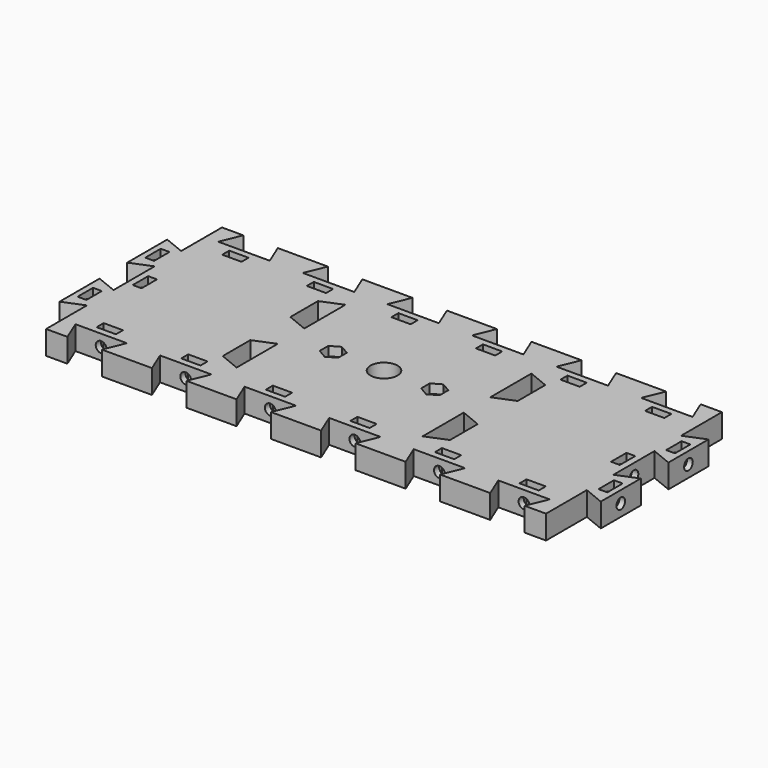
from build123d import *

# Parameters (mm, degrees)
SKETCH_W            = 160
SKETCH_H            = 65
PAD_DEPTH           = 7
POCKET_DEPTH        = 7.001
LINEARPATTERN_COUNT = 6
LINEARPATTERN_PITCH = 25
POCKET001_DEPTH     = 7.001
SKETCH003_R         = 1.6
POCKET002_DEPTH     = 10
SKETCH004_R         = 1.6
POCKET003_DEPTH     = 10
SKETCH005_W         = 2.6
SKETCH005_H         = 5.7
SKETCH005_W_2       = 5.7
SKETCH005_H_2       = 2.6
POCKET004_DEPTH     = 7.001
POCKET005_DEPTH     = 7.001
SKETCH007_R         = 1.6
SKETCH007_R_2       = 4
POCKET006_DEPTH     = 7.001
POCKET007_DEPTH     = 2.7
POCKET008_DEPTH     = 2.7
SKETCH010_R         = 1.6
POCKET009_DEPTH     = 10
SKETCH011_R         = 1.6
POCKET010_DEPTH     = 10
SKETCH012_R         = 1.6
POCKET011_DEPTH     = 10
SKETCH013_R         = 1.6
POCKET012_DEPTH     = 10


with BuildPart() as part:
    # Sketch → Pad (new body)
    with BuildSketch(Plane.XY):
        with Locations((80, 32.5)):
            Rectangle(SKETCH_W, SKETCH_H)
    extrude(amount=PAD_DEPTH)

    # Sketch001 (on Face6 of Pad) → Pocket (cut, through all)
    with BuildSketch(Plane.XY.offset(7)):
        Polygon((12.4, 65), (22.6, 65), (25.1, 58.9), (9.9, 58.9), align=None)
        Polygon((9.9, 6.1), (25.1, 6.1), (22.6, 0), (12.4, 0), align=None)
    pocket = extrude(amount=-POCKET_DEPTH, mode=Mode.SUBTRACT)

    # LinearPattern: Pocket ×6
    with Locations(*[(i * LINEARPATTERN_PITCH, 0, 0) for i in range(1, LINEARPATTERN_COUNT)]):
        add(pocket, mode=Mode.SUBTRACT)

    # Sketch002 (on Face4 of LinearPattern) → Pocket001 (cut, through all)
    with BuildSketch(Plane.XY.offset(7)):
        Polygon((0, 37.6), (0, 27.4), (6.1, 24.9), (6.1, 40.1), align=None)
        Polygon((0, 12.6), (6.1, 15.1), (6.1, 0), (0, 0), align=None)
        Polygon((0, 65.1), (6.1, 65.1), (6.1, 49.9), (0, 52.4), align=None)
        Polygon((160, 37.6), (160, 27.4), (153.9, 24.9), (153.9, 40.1), align=None)
        Polygon((160, 12.6), (153.9, 15.1), (153.9, 0), (160, 0), align=None)
        Polygon((160, 52.4), (153.9, 49.9), (153.9, 65), (160, 65), align=None)
    extrude(amount=-POCKET001_DEPTH, mode=Mode.SUBTRACT)

    # Sketch003 (on Face61 of Pocket001) → Pocket002 (cut)
    with BuildSketch(Plane(origin=(0, 0, 0), x_dir=(0, -1, 0), z_dir=(-1, 0, 0))):
        with Locations((-45, 3.5)):
            Circle(SKETCH003_R)
        with Locations((-20, 3.5)):
            Circle(SKETCH003_R)
    extrude(amount=-POCKET002_DEPTH, mode=Mode.SUBTRACT)

    # Sketch004 (on Face34 of Pocket002) → Pocket003 (cut)
    with BuildSketch(Plane.YZ.offset(160)):
        with Locations((20, 3.5)):
            Circle(SKETCH004_R)
        with Locations((45, 3.5)):
            Circle(SKETCH004_R)
    extrude(amount=-POCKET003_DEPTH, mode=Mode.SUBTRACT)

    # Sketch005 (on Face4 of Pocket003) → Pocket004 (cut, through all)
    with BuildSketch(Plane.XY.offset(7)):
        with Locations((3, 45)):
            Rectangle(SKETCH005_W, SKETCH005_H)
        with Locations((3, 20)):
            Rectangle(SKETCH005_W, SKETCH005_H)
        with Locations((157, 45)):
            Rectangle(SKETCH005_W, SKETCH005_H)
        with Locations((157, 20)):
            Rectangle(SKETCH005_W, SKETCH005_H)
        with Locations((17.5, 9.3)):
            Rectangle(SKETCH005_W_2, SKETCH005_H_2)
        with Locations((42.5, 9.3)):
            Rectangle(SKETCH005_W_2, SKETCH005_H_2)
        with Locations((67.5, 9.3)):
            Rectangle(SKETCH005_W_2, SKETCH005_H_2)
        with Locations((92.5, 9.3)):
            Rectangle(SKETCH005_W_2, SKETCH005_H_2)
        with Locations((117.5, 9.3)):
            Rectangle(SKETCH005_W_2, SKETCH005_H_2)
        with Locations((142.5, 9.3)):
            Rectangle(SKETCH005_W_2, SKETCH005_H_2)
        with Locations((17.5, 55.7)):
            Rectangle(SKETCH005_W_2, SKETCH005_H_2)
        with Locations((42.5, 55.7)):
            Rectangle(SKETCH005_W_2, SKETCH005_H_2)
        with Locations((67.5, 55.7)):
            Rectangle(SKETCH005_W_2, SKETCH005_H_2)
        with Locations((92.5, 55.7)):
            Rectangle(SKETCH005_W_2, SKETCH005_H_2)
        with Locations((117.5, 55.7)):
            Rectangle(SKETCH005_W_2, SKETCH005_H_2)
        with Locations((142.5, 55.7)):
            Rectangle(SKETCH005_W_2, SKETCH005_H_2)
        with Locations((9.3, 32.5)):
            Rectangle(SKETCH005_W, SKETCH005_H)
        with Locations((150.7, 32.5)):
            Rectangle(SKETCH005_W, SKETCH005_H)
    extrude(amount=-POCKET004_DEPTH, mode=Mode.SUBTRACT)

    # Sketch006 (on Face4 of Pocket004) → Pocket005 (cut, through all)
    with BuildSketch(Plane.XY.offset(7)):
        Polygon((46.4, 39.9), (46.4, 50.1), (52.5, 52.6), (52.5, 37.4), align=None)
        Polygon((46.4, 25.1), (46.4, 14.9), (52.5, 12.4), (52.5, 27.6), align=None)
        Polygon((107.5, 52.6), (107.5, 37.4), (113.6, 39.9), (113.6, 50.1), align=None)
        Polygon((107.5, 27.6), (107.5, 12.4), (113.6, 14.9), (113.6, 25.1), align=None)
    extrude(amount=-POCKET005_DEPTH, mode=Mode.SUBTRACT)

    # Sketch007 (on Face4 of Pocket005) → Pocket006 (cut, through all)
    with BuildSketch(Plane.XY.offset(7)):
        with Locations((65, 32.5)):
            Circle(SKETCH007_R)
        with Locations((95, 32.5)):
            Circle(SKETCH007_R)
        with Locations((80, 32.5)):
            Circle(SKETCH007_R_2)
    extrude(amount=-POCKET006_DEPTH, mode=Mode.SUBTRACT)

    # Sketch008 (on Face4 of Pocket006) → Pocket007 (cut)
    with BuildSketch(Plane.XY.offset(7)):
        Polygon((67.75, 34.087713), (65, 35.675426), (62.25, 34.087713), (62.25, 30.912287), (65, 29.324574), (67.75, 30.912287), align=None)
        Polygon((95, 35.675426), (92.25, 34.087713), (92.25, 30.912287), (95, 29.324574), (97.75, 30.912287), (97.75, 34.087713), align=None)
    extrude(amount=-POCKET007_DEPTH, mode=Mode.SUBTRACT)

    # Sketch009 (on Face2 of Pocket007) → Pocket008 (cut)
    with BuildSketch(Plane(origin=(0, 0, 0), x_dir=(1, 0, 0), z_dir=(0, 0, -1))):
        Polygon((65, -29.324574), (62.25, -30.912287), (62.25, -34.087713), (65, -35.675426), (67.75, -34.087713), (67.75, -30.912287), align=None)
        Polygon((92.25, -30.912287), (92.25, -34.087713), (95, -35.675426), (97.75, -34.087713), (97.75, -30.912287), (95, -29.324574), align=None)
    extrude(amount=-POCKET008_DEPTH, mode=Mode.SUBTRACT)

    # Sketch010 (on Face7 of Pocket008) → Pocket009 (cut)
    with BuildSketch(Plane.XZ.offset(-6.1)):
        with Locations((17.5, 3.5)):
            Circle(SKETCH010_R)
        with Locations((42.5, 3.5)):
            Circle(SKETCH010_R)
        with Locations((67.5, 3.5)):
            Circle(SKETCH010_R)
        with Locations((92.5, 3.5)):
            Circle(SKETCH010_R)
        with Locations((117.5, 3.5)):
            Circle(SKETCH010_R)
        with Locations((142.5, 3.5)):
            Circle(SKETCH010_R)
    extrude(amount=-POCKET009_DEPTH, mode=Mode.SUBTRACT)

    # Sketch011 (on Face69 of Pocket009) → Pocket010 (cut)
    with BuildSketch(Plane(origin=(0, 58.9, 0), x_dir=(-1, 0, 0), z_dir=(0, 1, 0))):
        with Locations((-142.5, 3.5)):
            Circle(SKETCH011_R)
        with Locations((-117.5, 3.5)):
            Circle(SKETCH011_R)
        with Locations((-92.5, 3.5)):
            Circle(SKETCH011_R)
        with Locations((-67.5, 3.5)):
            Circle(SKETCH011_R)
        with Locations((-42.5, 3.5)):
            Circle(SKETCH011_R)
        with Locations((-17.5, 3.5)):
            Circle(SKETCH011_R)
    extrude(amount=-POCKET010_DEPTH, mode=Mode.SUBTRACT)

    # Sketch012 (on Face55 of Pocket010) → Pocket011 (cut)
    with BuildSketch(Plane.YZ.offset(153.9)):
        with Locations((32.5, 3.5)):
            Circle(SKETCH012_R)
    extrude(amount=-POCKET011_DEPTH, mode=Mode.SUBTRACT)

    # Sketch013 (on Face21 of Pocket011) → Pocket012 (cut)
    with BuildSketch(Plane(origin=(6.1, 0, 0), x_dir=(0, -1, 0), z_dir=(-1, 0, 0))):
        with Locations((-32.5, 3.5)):
            Circle(SKETCH013_R)
    extrude(amount=-POCKET012_DEPTH, mode=Mode.SUBTRACT)


solid = part.part
